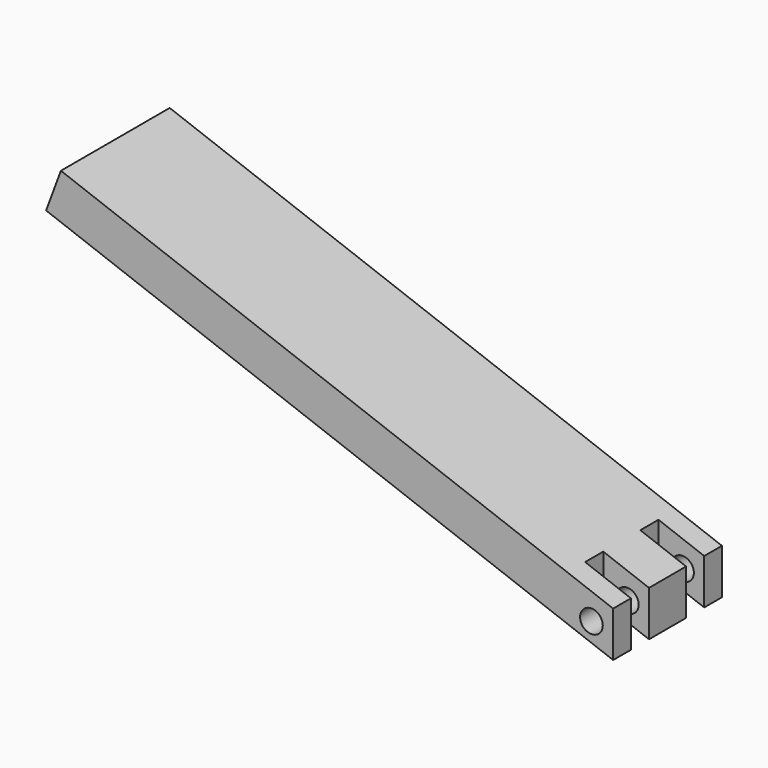
from build123d import *

# Parameters (mm, degrees)
F1_DEPTH = 38.1
F2_W     = 30.48
F2_H     = 12.699997
F3_DEPTH = 72.898
F4_R     = 6.35
F5_DEPTH = 38.1


with BuildPart() as f1:
    # F0 (on Front) → F1 (new body, symmetric)
    with BuildSketch(Plane.XZ):
        Polygon((190.276301, -36.691978), (-119.121099, 78.656576), (-127.435068, 56.356163), (190.276301, -62.091978), align=None)
    extrude(amount=F1_DEPTH, both=True)

    # F2 (on Top) → F3 (cut)
    with BuildSketch(Plane.XY):
        with Locations((179.884099, 19.347873)):
            Rectangle(F2_W, F2_H)
        with Locations((179.884092, -19.304001)):
            Rectangle(F2_W, F2_H)
    extrude(amount=-F3_DEPTH, mode=Mode.SUBTRACT)

    # F4 (on Front) → F5 (cut, symmetric)
    with BuildSketch(Plane.XZ):
        with Locations((178.126182, -46.895169)):
            Circle(F4_R)
    extrude(amount=F5_DEPTH, both=True, mode=Mode.SUBTRACT)


with BuildPart() as f1_1:
    # F6: moved
    add(f1.part.moved(Location((-31.496, 0, -8.636))))


solid = f1_1.part
